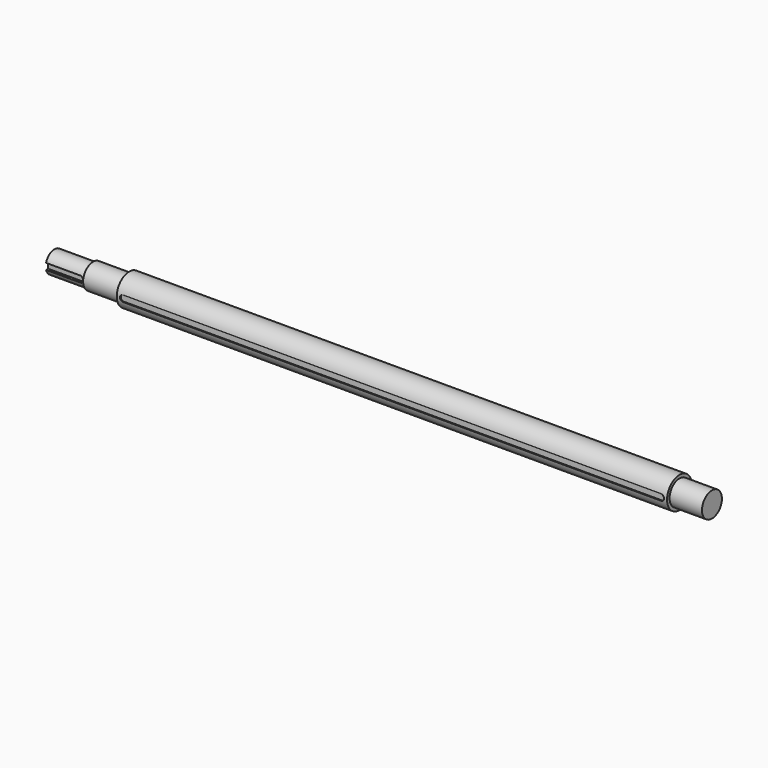
from build123d import *

# Parameters (mm, degrees)
F5_DEPTH = 5
F7_DEPTH = 2


with BuildPart() as f3:
    # F2 (on Front) → F3 (revolve)
    with BuildSketch(Plane.XZ):
        Polygon((1055, 0), (0, 0), (0, -17.5), (62, -17.5), (62, -20), (120, -20), (120, -25), (1003, -25), (1003, -20), (1055, -20), align=None)
    revolve(axis=Axis((527.5, 0, 0), (1, 0, 0)))

    # F4 (on offset) → F5 (cut)
    with BuildSketch(Plane.XZ.offset(17.5)):
        with BuildLine():
            Line((55, 5), (0, 5))
            Line((0, 5), (0, -5))
            Line((0, -5), (55, -5))
            ThreePointArc((55, -5), (60, 0), (55, 5))
        make_face()
    extrude(amount=-F5_DEPTH, mode=Mode.SUBTRACT)

    # F6 (on offset) → F7 (cut)
    with BuildSketch(Plane.XZ.offset(25)):
        with BuildLine():
            Line((993, 5), (130, 5))
            ThreePointArc((130, 5), (125, 0), (130, -5))
            Line((130, -5), (993, -5))
            ThreePointArc((993, -5), (998, 0), (993, 5))
        make_face()
    extrude(amount=-F7_DEPTH, mode=Mode.SUBTRACT)


solid = f3.part
